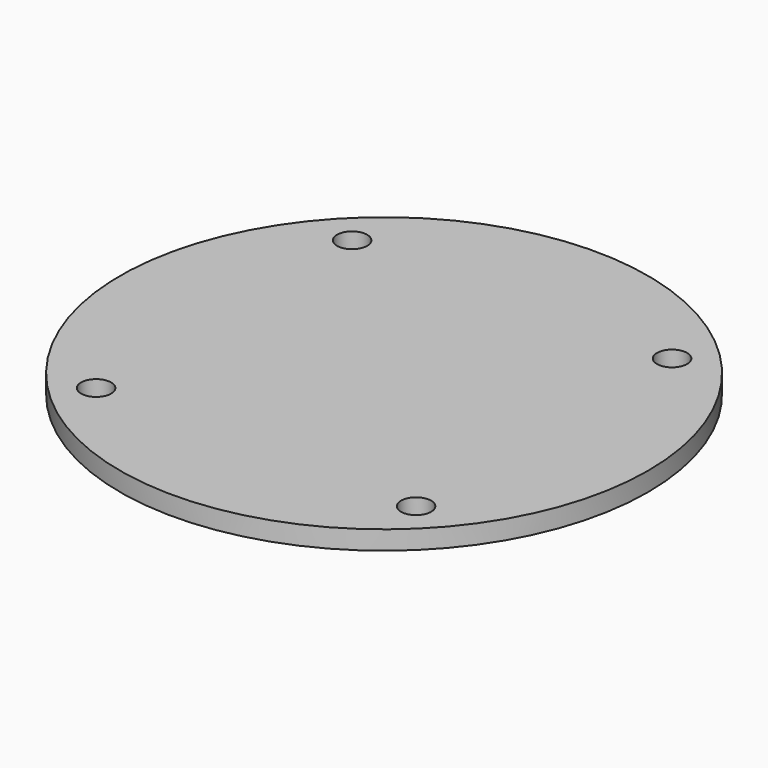
from build123d import *

# Parameters (mm, degrees)
SKETCH_R     = 70
PAD_DEPTH    = 5
SKETCH001_R  = 4
POCKET_DEPTH = 5


with BuildPart() as part:
    # Sketch → Pad (new body)
    with BuildSketch(Plane.XY):
        Circle(SKETCH_R)
    extrude(amount=PAD_DEPTH)

    # Sketch001 → Pocket (cut)
    with BuildSketch(Plane.XY.offset(5)):
        with Locations((-42.426407, 42.426407)):
            Circle(SKETCH001_R)
        with Locations((42.426407, 42.426407)):
            Circle(SKETCH001_R)
        with Locations((42.426407, -42.426407)):
            Circle(SKETCH001_R)
        with Locations((-42.426407, -42.426407)):
            Circle(SKETCH001_R)
    extrude(amount=-POCKET_DEPTH, mode=Mode.SUBTRACT)


solid = part.part
